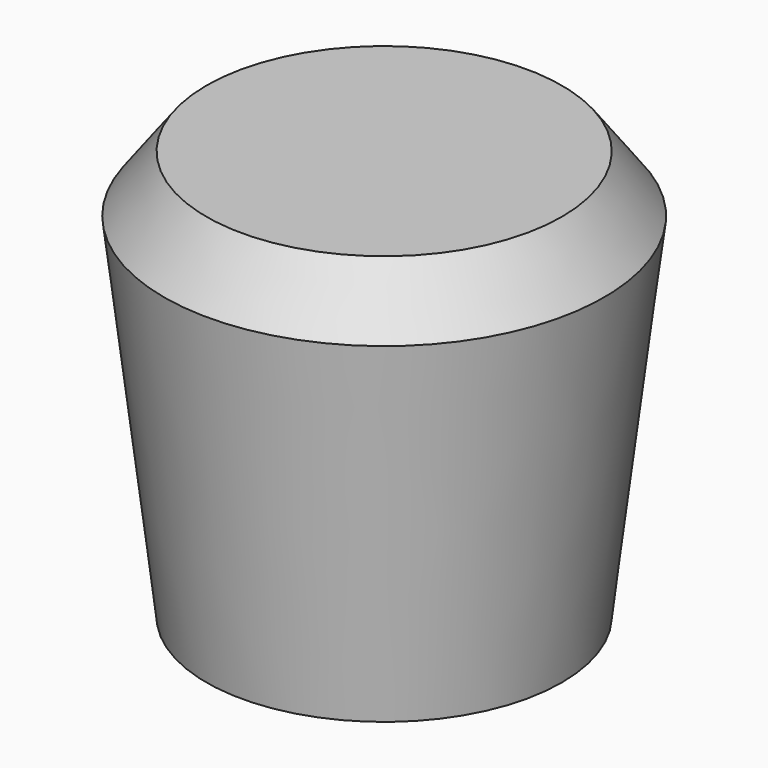
from build123d import *

# Parameters (mm, degrees)
F2_R     = 9.652
F3_DEPTH = 33.02


with BuildPart() as f1:
    # F0 (on Front) → F1 (revolve)
    with BuildSketch(Plane.XZ):
        Polygon((-69.051719, 0), (-50.001719, 0), (-50.001719, 43.942), (-69.051719, 43.942), (-73.599146, 37.827647), align=None)
    revolve(axis=Axis((-50.001719, 0, 21.971), (0, 0, -1)))

    # F2 (on Top) → F3 (cut)
    with BuildSketch(Plane.XY):
        with Locations((-50.310243, -0.510002)):
            Circle(F2_R)
    extrude(amount=F3_DEPTH, mode=Mode.SUBTRACT)


solid = f1.part
